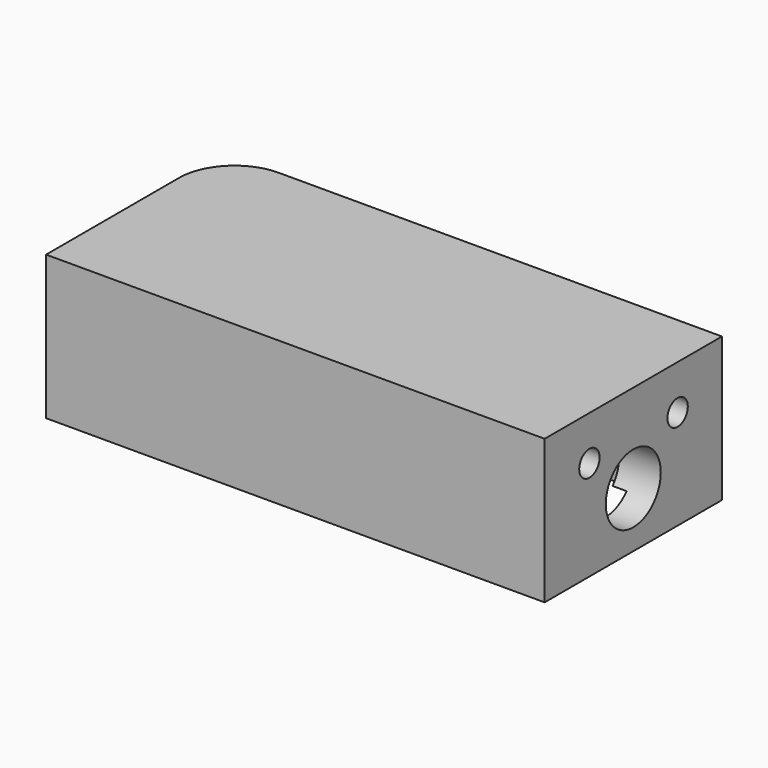
from build123d import *

# Parameters (mm, degrees)
F0_W          = 4
F0_H          = 5
F0_R          = 3
F0_W_2        = 2
F0_H_2        = 8
F0_R_2        = 1.2
F1_DEPTH      = 10
F2_DEPTH      = 3
F3_START      = 2
F1_FACE_W     = 45
F1_FACE_H     = 20
F3_DEPTH      = 6.5
F4_START      = 5
F4_DEPTH      = 1.5
F5_R          = 5
F6_DEPTH      = 8.1
F7_DEPTH      = 3
F7_DEPTH_BACK = 0.5
F8_DEPTH      = 25
F8_DEPTH_BACK = 1.7
F10_START     = 16.22
F9_R          = 3.1
F10_DEPTH     = 9.58
F11_START     = 16.7
F9_R_2        = 1.15
F11_DEPTH     = 21.7


with BuildPart() as f1:
    # F0 (on Top) → F1 (new body)
    with BuildSketch(Plane.XY):
        Polygon((21.9938950613, 39.5450913161), (-23.0061049387, 39.5450913161), (-23.0061049387, 19.5450913161), (-9.9312635139, 19.5450913161), (10.0687364861, 19.5450913161), (21.9938950613, 19.5450913161), align=None)
        Polygon((-12.5061049387, 32.0450913161), (-12.5061049387, 37.0450913161), (19.4938950613, 37.0450913161), (19.4938950613, 22.0450913161), (-12.5061049387, 22.0450913161), (-12.5061049387, 27.0450913161), (-16.5061049387, 27.0450913161), (-20.5061049387, 27.0450913161), (-20.5061049387, 32.0450913161), (-16.5061049387, 32.0450913161), align=None, mode=Mode.SUBTRACT)
        with Locations((-18.5061049387, 29.5450913161)):
            Rectangle(F0_W, F0_H)
        with Locations((-14.5061049387, 29.5450913161)):
            Rectangle(F0_W, F0_H)
        Polygon((19.4938950613, 37.0450913161), (-12.5061049387, 37.0450913161), (-12.5061049387, 32.0450913161), (-12.5061049387, 27.0450913161), (-12.5061049387, 22.0450913161), (19.4938950613, 22.0450913161), align=None)
        with Locations((10.4938950613, 30.0450913161)):
            Circle(F0_R, mode=Mode.SUBTRACT)
        with Locations((17.2357911468, 31.5450913161)):
            Rectangle(F0_W_2, F0_H_2, mode=Mode.SUBTRACT)
        with Locations((10.4938950613, 30.0450913161)):
            Circle(F0_R)
        with Locations((10.4938950613, 30.0450913161)):
            Circle(F0_R_2, mode=Mode.SUBTRACT)
        with Locations((10.4938950613, 30.0450913161)):
            Circle(F0_R_2)
        with Locations((17.2357911468, 31.5450913161)):
            Rectangle(F0_W_2, F0_H_2)
    extrude(amount=F1_DEPTH)

    # F0 (on Top) → F2 (join)
    with BuildSketch(Plane.XY):
        Polygon((21.9938950613, 39.5450913161), (-23.0061049387, 39.5450913161), (-23.0061049387, 19.5450913161), (-9.9312635139, 19.5450913161), (10.0687364861, 19.5450913161), (21.9938950613, 19.5450913161), align=None)
        Polygon((-12.5061049387, 32.0450913161), (-12.5061049387, 37.0450913161), (19.4938950613, 37.0450913161), (19.4938950613, 22.0450913161), (-12.5061049387, 22.0450913161), (-12.5061049387, 27.0450913161), (-16.5061049387, 27.0450913161), (-20.5061049387, 27.0450913161), (-20.5061049387, 32.0450913161), (-16.5061049387, 32.0450913161), align=None, mode=Mode.SUBTRACT)
        with Locations((-14.5061049387, 29.5450913161)):
            Rectangle(F0_W, F0_H)
        with Locations((-18.5061049387, 29.5450913161)):
            Rectangle(F0_W, F0_H)
    extrude(amount=-F2_DEPTH)

    # F0 (on Top) + F1_face (on face) → F3 (cut)
    with BuildSketch(Plane.XY.offset(F3_START)):
        with Locations((-18.5061049387, 29.5450913161)):
            Rectangle(F0_W, F0_H)
        with Locations((-14.5061049387, 29.5450913161)):
            Rectangle(F0_W, F0_H)
    with BuildSketch(Plane(origin=(-0.5061049387, 29.5450913161, 10), x_dir=(1, 0, 0), z_dir=(0, 0, 1)).offset(F3_START)):
        Rectangle(F1_FACE_W, F1_FACE_H)
    extrude(amount=F3_DEPTH, mode=Mode.SUBTRACT)

    # F5
    f5_edges = [f1.edges().sort_by_distance(p)[0] for p in [
        (-23.006105, 39.545091, 3.5),
    ]]
    fillet(f5_edges, radius=F5_R)

    # F0 (on Top) → F6 (cut)
    with BuildSketch(Plane.XY):
        with Locations((10.4938950613, 30.0450913161)):
            Circle(F0_R_2)
    extrude(amount=F6_DEPTH, mode=Mode.SUBTRACT)



with BuildPart() as f4:
    # F0 (on Top) → F4 (new body)
    with BuildSketch(Plane.XY.offset(F4_START)):
        with Locations((10.4938950613, 30.0450913161)):
            Circle(F0_R)
        with Locations((10.4938950613, 30.0450913161)):
            Circle(F0_R_2, mode=Mode.SUBTRACT)
    extrude(amount=F4_DEPTH)


with BuildPart() as f1_1:
    add(f1.part)

    add(f4.part)  # F7 merges F4
    # F0 (on Top) → F7 (join, two sides)
    with BuildSketch(Plane.XY) as f7_sk:
        with Locations((10.4938950613, 30.0450913161)):
            Circle(F0_R)
        with Locations((10.4938950613, 30.0450913161)):
            Circle(F0_R_2, mode=Mode.SUBTRACT)
    extrude(amount=F7_DEPTH)
    extrude(f7_sk.sketch, amount=-F7_DEPTH_BACK)

    # F0 (on Top) → F8 (cut, two sides)
    with BuildSketch(Plane.XY) as f8_sk:
        with Locations((17.2357911468, 31.5450913161)):
            Rectangle(F0_W_2, F0_H_2)
    extrude(amount=-F8_DEPTH, mode=Mode.SUBTRACT)
    extrude(f8_sk.sketch, amount=F8_DEPTH_BACK, mode=Mode.SUBTRACT)

    # F9 (on Right) → F10 (cut)
    with BuildSketch(Plane.YZ.offset(F10_START)):
        with Locations((29.5450913161, 2)):
            Circle(F9_R)
    extrude(amount=F10_DEPTH, mode=Mode.SUBTRACT)

    # F9 (on Right) → F11 (cut)
    with BuildSketch(Plane.YZ.offset(F11_START)):
        with Locations((34.5450913161, 6)):
            Circle(F9_R_2)
        with Locations((24.595216945, 6)):
            Circle(F9_R_2)
    extrude(amount=F11_DEPTH, mode=Mode.SUBTRACT)


solid = f1_1.part
